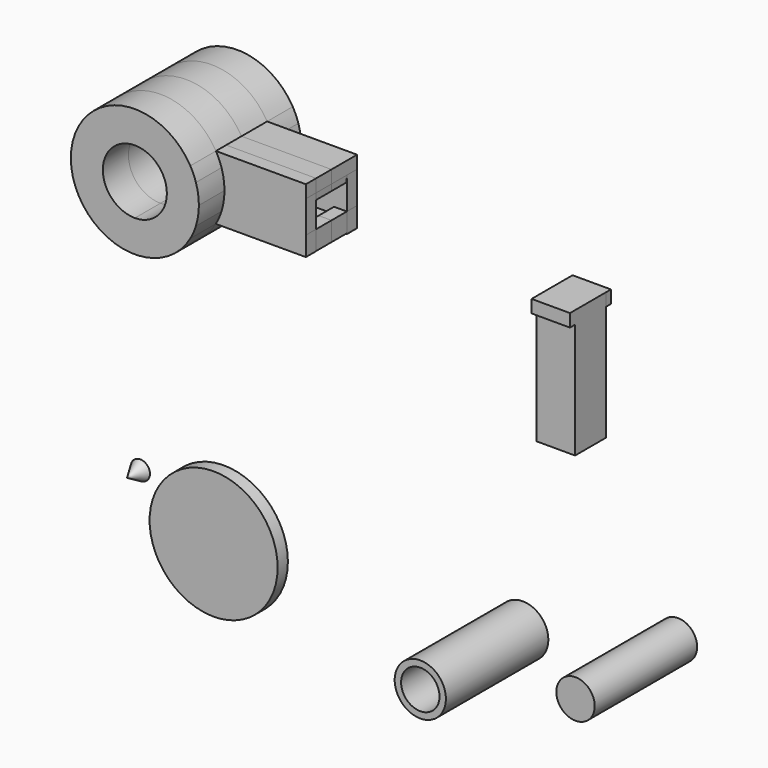
from build123d import *

# Parameters (mm, degrees)
F1_DEPTH  = 12.7
F0_W      = 2.54
F0_H      = 1.27
F2_DEPTH  = 6.35
F3_W      = 17.8465797751
F3_H      = 12.7276986487
F4_DEPTH  = 2.54
F6_DEPTH  = 2.54
F7_W      = 7.62
F7_H      = 25.4
F8_DEPTH  = 7.62
F9_W      = 7.62
F9_H      = 1.27
F10_DEPTH = 2.54
F11_R     = 12.7
F12_DEPTH = 2.54
F13_R     = 5.08
F13_R_2   = 3.81
F14_DEPTH = 25.4
F15_R     = 3.81
F16_DEPTH = 25.4


with BuildPart() as f1:
    # F0 (on Front) → F1 (new body, symmetric)
    with BuildSketch(Plane.XZ):
        with BuildLine():
            ThreePointArc((-55.7071603835, 27.6736572362), (-62.0571603835, 34.0236572362), (-55.7071603835, 40.3736572362))
            Line((-55.7071603835, 40.3736572362), (-44.7086377554, 40.3736572362))
            ThreePointArc((-44.7086377554, 40.3736572362), (-68.4071603835, 34.0236572362), (-44.7086377554, 27.6736572362))
            Line((-44.7086377554, 27.6736572362), (-55.7071603835, 27.6736572362))
        make_face()
        with BuildLine():
            ThreePointArc((-55.7071603835, 40.3736572362), (-51.2170323229, 38.5137852967), (-49.3571603835, 34.0236572362))
            ThreePointArc((-49.3571603835, 34.0236572362), (-51.2170323229, 29.5335291756), (-55.7071603835, 27.6736572362))
            Line((-55.7071603835, 27.6736572362), (-44.7086377554, 27.6736572362))
            ThreePointArc((-44.7086377554, 27.6736572362), (-44.0808129769, 28.9130754707), (-43.5921325255, 30.2136572362))
            ThreePointArc((-43.5921325255, 30.2136572362), (-43.1542552656, 32.0963344553), (-43.0071603835, 34.0236572362))
            ThreePointArc((-43.0071603835, 34.0236572362), (-43.1542552656, 35.9509800171), (-43.5921325255, 37.8336572362))
            ThreePointArc((-43.5921325255, 37.8336572362), (-44.0808129769, 39.1342390017), (-44.7086377554, 40.3736572362))
            Line((-44.7086377554, 40.3736572362), (-55.7071603835, 40.3736572362))
        make_face()
    extrude(amount=F1_DEPTH, both=True)

    # F0 (on Front) → F2 (join, symmetric)
    with BuildSketch(Plane.XZ):
        with BuildLine():
            ThreePointArc((-55.7071603835, 40.3736572362), (-51.2170323229, 38.5137852967), (-49.3571603835, 34.0236572362))
            ThreePointArc((-49.3571603835, 34.0236572362), (-51.2170323229, 29.5335291756), (-55.7071603835, 27.6736572362))
            Line((-55.7071603835, 27.6736572362), (-44.7086377554, 27.6736572362))
            ThreePointArc((-44.7086377554, 27.6736572362), (-44.0808129769, 28.9130754707), (-43.5921325255, 30.2136572362))
            ThreePointArc((-43.5921325255, 30.2136572362), (-43.1542552656, 32.0963344553), (-43.0071603835, 34.0236572362))
            ThreePointArc((-43.0071603835, 34.0236572362), (-43.1542552656, 35.9509800171), (-43.5921325255, 37.8336572362))
            ThreePointArc((-43.5921325255, 37.8336572362), (-44.0808129769, 39.1342390017), (-44.7086377554, 40.3736572362))
            Line((-44.7086377554, 40.3736572362), (-55.7071603835, 40.3736572362))
        make_face()
        with BuildLine():
            ThreePointArc((-55.7071603835, 27.6736572362), (-62.0571603835, 34.0236572362), (-55.7071603835, 40.3736572362))
            Line((-55.7071603835, 40.3736572362), (-44.7086377554, 40.3736572362))
            ThreePointArc((-44.7086377554, 40.3736572362), (-68.4071603835, 34.0236572362), (-44.7086377554, 27.6736572362))
            Line((-44.7086377554, 27.6736572362), (-55.7071603835, 27.6736572362))
        make_face()
        with BuildLine():
            Line((-26.8620579803, 40.3736572362), (-44.7086377554, 40.3736572362))
            ThreePointArc((-44.7086377554, 40.3736572362), (-44.0808129769, 39.1342390017), (-43.5921325255, 37.8336572362))
            Line((-43.5921325255, 37.8336572362), (-29.4020579803, 37.8336572362))
            Line((-29.4020579803, 37.8336572362), (-26.8620579803, 37.8336572362))
            Line((-26.8620579803, 37.8336572362), (-26.8620579803, 40.3736572362))
        make_face()
        with BuildLine():
            ThreePointArc((-43.5921325255, 30.2136572362), (-44.0808129769, 28.9130754707), (-44.7086377554, 27.6736572362))
            Line((-44.7086377554, 27.6736572362), (-26.8620579803, 27.6736572362))
            Line((-26.8620579803, 27.6736572362), (-26.8620579803, 30.2136572362))
            Line((-26.8620579803, 30.2136572362), (-29.4020579803, 30.2136572362))
            Line((-29.4020579803, 30.2136572362), (-43.5921325255, 30.2136572362))
        make_face()
        Polygon((-26.8620579803, 37.8336572362), (-29.4020579803, 37.8336572362), (-29.4020579803, 36.5636572362), (-26.8964342725, 36.5641225693), align=None)
        with Locations((-28.1320579803, 30.8486572362)):
            Rectangle(F0_W, F0_H)
    extrude(amount=F2_DEPTH, both=True)

    # F3 (on face) → F4 (join)
    with BuildSketch(Plane.XZ.offset(6.35)):
        with Locations((-35.7853478678, 34.0098079119)):
            Rectangle(F3_W, F3_H)
    extrude(amount=-F4_DEPTH)

    # F5 (on face) → F6 (join)
    with BuildSketch(Plane(origin=(0, 6.35, 0), x_dir=(-1, 0, 0), z_dir=(0, 1, 0))):
        with BuildLine():
            Line((44.7086377554, 27.5241956115), (44.7086377554, 40.3736572362))
            ThreePointArc((44.7086377554, 40.3736572362), (44.0808129769, 39.1342390017), (43.5921325255, 37.8336572362))
            Line((43.5921325255, 37.8336572362), (29.4020579803, 37.8336572362))
            Line((29.4020579803, 37.8336572362), (29.4020579803, 36.5636572362))
            Line((29.4020579803, 36.5636572362), (26.8964342725, 36.5641225693))
            Line((26.8964342725, 36.5641225693), (26.8620579803, 37.8336572362))
            Line((26.8620579803, 37.8336572362), (26.8620579803, 27.5241956115))
            Line((26.8620579803, 27.5241956115), (44.7086377554, 27.5241956115))
        make_face()
    extrude(amount=-F6_DEPTH)


with BuildPart() as f8:
    # F7 (on Front) → F8 (new body)
    with BuildSketch(Plane.XZ):
        with Locations((23.7544238305, 23.9057886296)):
            Rectangle(F7_W, F7_H)
    extrude(amount=F8_DEPTH)

    # F9 (on face) → F10 (join)
    with BuildSketch(Plane.XY.offset(36.6057886296)):
        Polygon((19.9444238305, 1.27), (19.9444238305, 0), (27.5644238305, 0), (27.5596526358, 1.2699910376), align=None)
        with Locations((23.7544238305, -8.255)):
            Rectangle(F9_W, F9_H)
    extrude(amount=-F10_DEPTH)


with BuildPart() as f12:
    # F11 (on Front) → F12 (new body)
    with BuildSketch(Plane.XZ):
        with Locations((-48.2074655592, -30.9391189367)):
            Circle(F11_R)
    extrude(amount=F12_DEPTH)


with BuildPart() as f14:
    # F13 (on Front) → F14 (new body)
    with BuildSketch(Plane.XZ):
        with Locations((11.0805211589, -27.773257345)):
            Circle(F13_R)
        with Locations((11.0805211589, -27.773257345)):
            Circle(F13_R_2, mode=Mode.SUBTRACT)
    extrude(amount=F14_DEPTH)


with BuildPart() as f16:
    # F15 (on Front) → F16 (new body)
    with BuildSketch(Plane.XZ):
        with Locations((41.8757386506, -19.4268878549)):
            Circle(F15_R)
    extrude(amount=F16_DEPTH)


with BuildPart() as f18:
    # F17 (on Top) → F18 (revolve)
    with BuildSketch(Plane.XY):
        Polygon((-35.4001093656, -36.7281247626), (-37.3051093656, -36.7281247626), (-35.4001093656, -40.0301247626), align=None)
    revolve(axis=Axis((-35.4001093656, -38.3791247626, 0), (0, -1, 0)))


solid = Compound([f1.part, f8.part, f12.part, f14.part, f16.part, f18.part])
